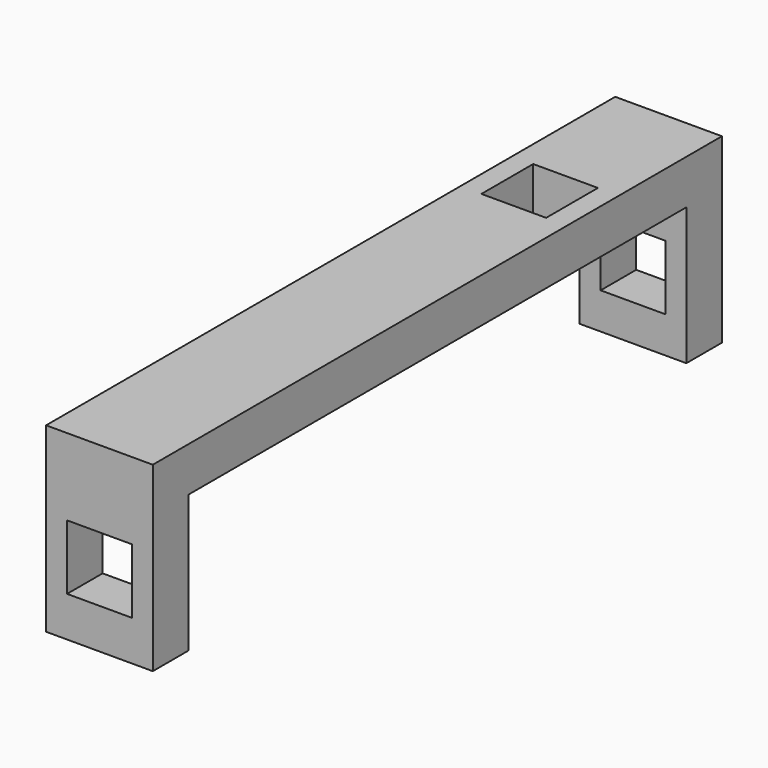
from build123d import *

# Parameters (mm, degrees)
F0_W     = 7.62
F0_H     = 3.175
F1_DEPTH = 50.8
F0_H_2   = 9.8044
F0_W_2   = 4.6228
F0_H_3   = 4.6228
F2_DEPTH = 3.175
F3_W     = 7.62
F3_H     = 3.175
F4_DEPTH = 9.8044
F6_DEPTH = 25.4
F8_DEPTH = 25.4


with BuildPart() as f1:
    # F0 (on Front) → F1 (new body)
    with BuildSketch(Plane.XZ):
        with Locations((0, 6.4897)):
            Rectangle(F0_W, F0_H)
    extrude(amount=F1_DEPTH)

    # F0 (on Front) → F2 (join)
    with BuildSketch(Plane.XZ):
        Rectangle(F0_W, F0_H_2)
        Rectangle(F0_W_2, F0_H_3, mode=Mode.SUBTRACT)
    extrude(amount=F2_DEPTH)

    # F3 (on face) → F4 (join)
    with BuildSketch(Plane(origin=(0, 0, 4.9022), x_dir=(1, 0, 0), z_dir=(0, 0, -1))):
        with Locations((0, 49.2125)):
            Rectangle(F3_W, F3_H)
    extrude(amount=F4_DEPTH)

    # F5 (on face) → F6 (cut)
    with BuildSketch(Plane.XZ.offset(50.8)):
        Polygon((2.3114, -2.032073), (2.3114, 1.5875), (2.3114, 2.590727), (-2.3114, 2.590727), (-2.3114, -2.032073), align=None)
    extrude(amount=-F6_DEPTH, mode=Mode.SUBTRACT)

    # F7 (on face) → F8 (cut)
    with BuildSketch(Plane.XY.offset(8.0772)):
        Polygon((2.3114, -9.1948), (0, -9.1948), (-2.3114, -9.1948), (-2.3114, -13.8176), (2.3114, -13.8176), align=None)
    extrude(amount=-F8_DEPTH, mode=Mode.SUBTRACT)


solid = f1.part
